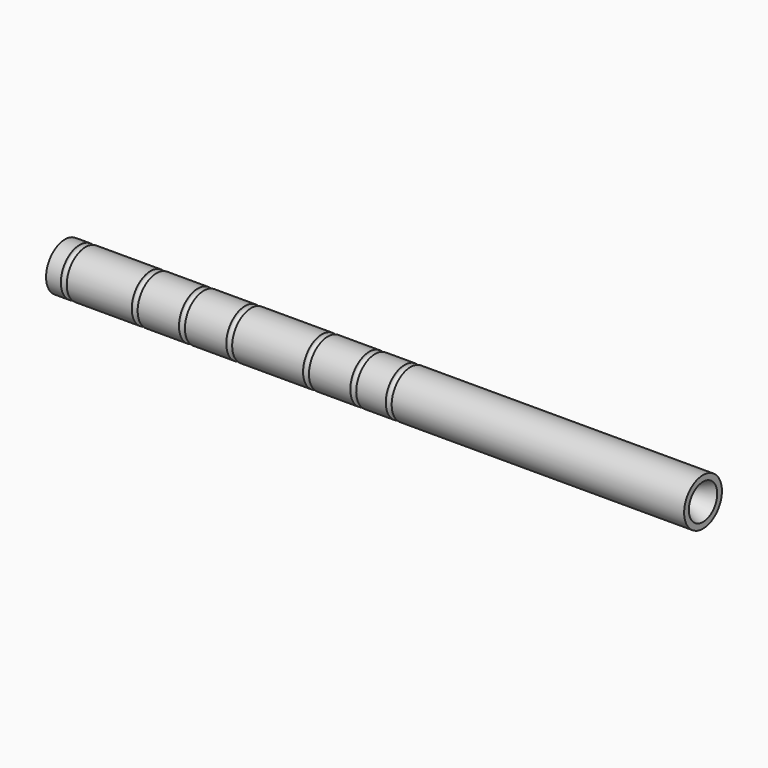
from build123d import *


with BuildPart() as f1:
    # F0 (on Front) → F1 (revolve)
    with BuildSketch(Plane.XZ):
        with BuildLine():
            Line((0, 9.525), (0, 12.7))
            Line((0, 12.7), (-157.1625, 12.7))
            ThreePointArc((-157.1625, 12.7), (-158.75, 11.1125), (-160.3375, 12.7))
            Line((-160.3375, 12.7), (-176.2125, 12.7))
            ThreePointArc((-176.2125, 12.7), (-177.8, 11.1125), (-179.3875, 12.7))
            Line((-179.3875, 12.7), (-201.6125, 12.7))
            ThreePointArc((-201.6125, 12.7), (-203.2, 11.1125), (-204.7875, 12.7))
            Line((-204.7875, 12.7), (-242.8875, 12.7))
            ThreePointArc((-242.8875, 12.7), (-244.475, 11.1125), (-246.0625, 12.7))
            Line((-246.0625, 12.7), (-268.2875, 12.7))
            ThreePointArc((-268.2875, 12.7), (-269.875, 11.1125), (-271.4625, 12.7))
            Line((-271.4625, 12.7), (-293.6875, 12.7))
            ThreePointArc((-293.6875, 12.7), (-295.275, 11.1125), (-296.8625, 12.7))
            Line((-296.8625, 12.7), (-331.7875, 12.7))
            ThreePointArc((-331.7875, 12.7), (-333.375, 11.1125), (-334.9625, 12.7))
            Line((-334.9625, 12.7), (-342.9, 12.7))
            Line((-342.9, 12.7), (-342.9, 9.525))
            Line((-342.9, 9.525), (-333.375, 4.953))
            Line((-333.375, 4.953), (-9.525, 4.953))
            Line((-9.525, 4.953), (0, 9.525))
        make_face()
    revolve(axis=Axis((-171.45, 0, 0), (-1, 0, 0)))


solid = f1.part
